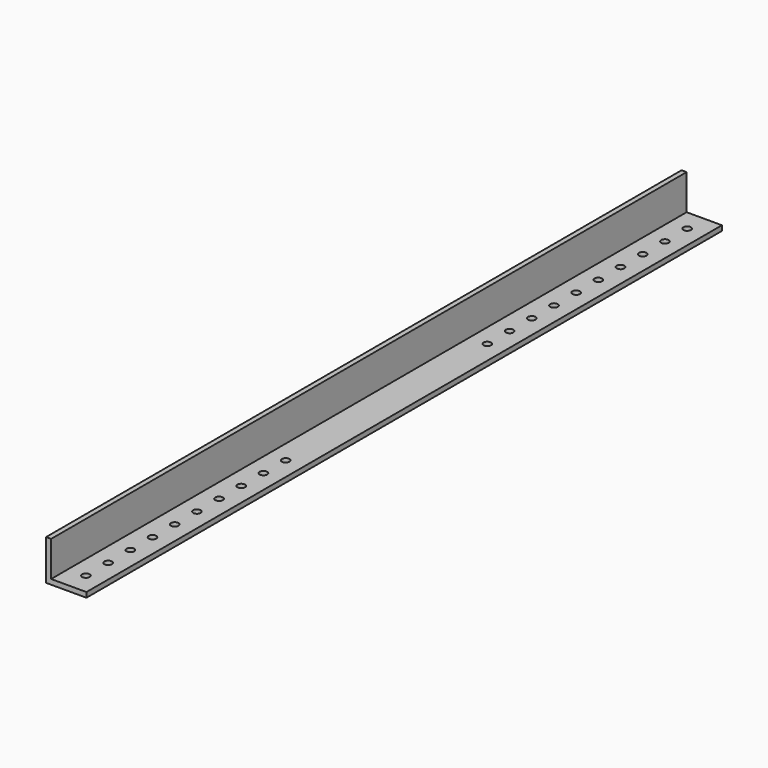
from build123d import *

# Parameters (mm, degrees)
F1_DEPTH = 500.0625
F2_R     = 4.7625
F3_DEPTH = 6.351


with BuildPart() as f1:
    # F0 (on Front) → F1 (new body, symmetric)
    with BuildSketch(Plane.XZ):
        Polygon((0, 50.8), (0, 0), (50.8, 0), (50.8, 6.35), (6.35, 6.35), (6.35, 50.8), align=None)
    extrude(amount=F1_DEPTH, both=True)

    # F2 (on face) → F3 (cut, through all)
    with BuildSketch(Plane.XY.offset(6.35)):
        with Locations((28.575, 473.075)):
            Circle(F2_R)
        with Locations((28.575, 438.15)):
            Circle(F2_R)
        with Locations((28.575, 403.225)):
            Circle(F2_R)
        with Locations((28.575, 368.3)):
            Circle(F2_R)
        with Locations((28.575, 333.375)):
            Circle(F2_R)
        with Locations((28.575, 298.45)):
            Circle(F2_R)
        with Locations((28.575, 263.525)):
            Circle(F2_R)
        with Locations((28.575, 228.6)):
            Circle(F2_R)
        with Locations((28.575, 193.675)):
            Circle(F2_R)
        with Locations((28.575, 158.75)):
            Circle(F2_R)
        with Locations((28.575, -158.75)):
            Circle(F2_R)
        with Locations((28.575, -193.675)):
            Circle(F2_R)
        with Locations((28.575, -228.6)):
            Circle(F2_R)
        with Locations((28.575, -263.525)):
            Circle(F2_R)
        with Locations((28.575, -298.45)):
            Circle(F2_R)
        with Locations((28.575, -333.375)):
            Circle(F2_R)
        with Locations((28.575, -473.075)):
            Circle(F2_R)
        with Locations((28.575, -438.15)):
            Circle(F2_R)
        with Locations((28.575, -403.225)):
            Circle(F2_R)
        with Locations((28.575, -368.3)):
            Circle(F2_R)
    extrude(amount=-F3_DEPTH, mode=Mode.SUBTRACT)


solid = f1.part
